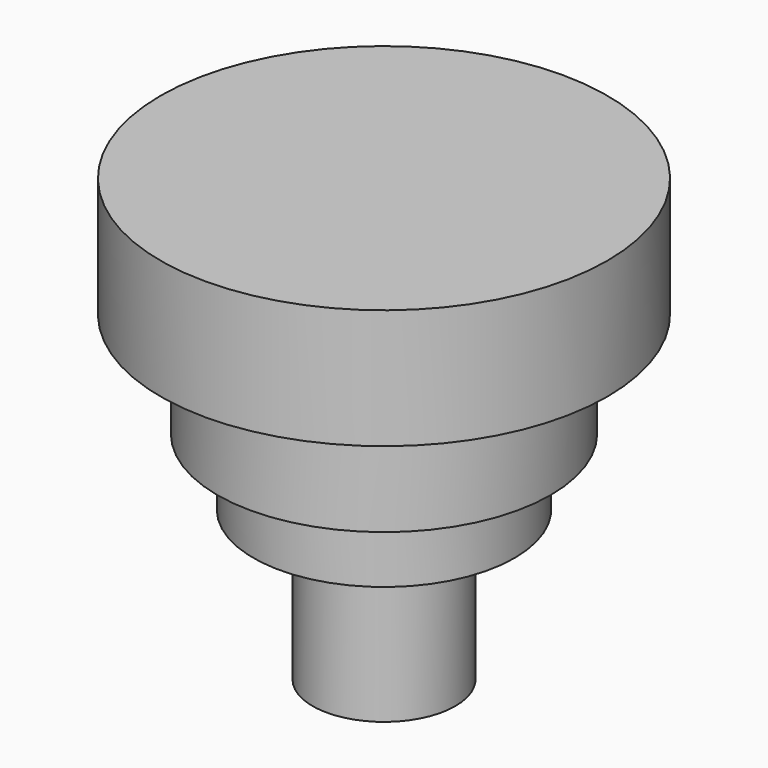
from build123d import *

# Parameters (mm, degrees)
F0_R     = 47.425986
F1_DEPTH = 25.4
F2_R     = 35.341505
F3_DEPTH = 22.352
F4_R     = 27.718255
F5_DEPTH = 14.224
F6_R     = 15.158749
F7_DEPTH = 68.326


with BuildPart() as f1:
    # F0 (on Top) → F1 (new body)
    with BuildSketch(Plane.XY):
        Circle(F0_R)
    extrude(amount=F1_DEPTH)

    # F2 (on Top) → F3 (join)
    with BuildSketch(Plane.XY):
        Circle(F2_R)
    extrude(amount=-F3_DEPTH)

    # F4 (on face) → F5 (join)
    with BuildSketch(Plane(origin=(0, 0, -22.352), x_dir=(1, 0, 0), z_dir=(0, 0, -1))):
        Circle(F4_R)
    extrude(amount=F5_DEPTH)

    # F6 (on Top) → F7 (join)
    with BuildSketch(Plane.XY):
        Circle(F6_R)
    extrude(amount=-F7_DEPTH)


solid = f1.part
